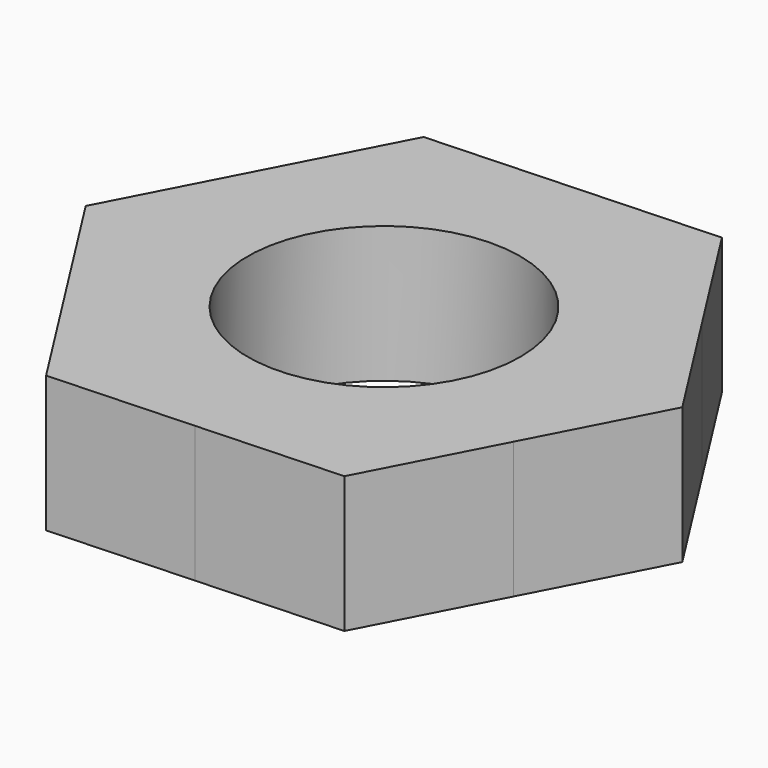
from build123d import *

# Parameters (mm, degrees)
F0_R     = 1.5
F1_DEPTH = 1.5


with BuildPart() as f1:
    # F0 (on Top) → F1 (new body)
    with BuildSketch(Plane.XY):
        with BuildLine():
            ThreePointArc((-0.1201086231, 2.7473758241), (1.2696708079, 2.4393515613), (2.3192429637, 1.4777050029))
            Line((2.3192429637, 1.4777050029), (1.4660895902, 2.8167205482))
            Line((1.4660895902, 2.8167205482), (-0.1201086231, 2.7473758241))
        make_face()
        with BuildLine():
            Line((1.706306755, -2.6780311034), (2.4393515428, -1.2696708434))
            ThreePointArc((2.4393515428, -1.2696708434), (1.477704987, -2.3192429738), (0.1201085757, -2.7473758261))
            Line((0.1201085757, -2.7473758261), (1.706306755, -2.6780311034))
        make_face()
        with BuildLine():
            ThreePointArc((-2.4393515589, 1.2696708124), (-1.4777050217, 2.3192429516), (-0.1201086231, 2.7473758241))
            Line((-0.1201086231, 2.7473758241), (-1.706306755, 2.6780311034))
            Line((-1.706306755, 2.6780311034), (-2.4393515589, 1.2696708124))
        make_face()
        with BuildLine():
            ThreePointArc((2.3192429637, 1.4777050029), (2.6401153526, 0.7696043951), (2.75, 0))
            ThreePointArc((2.75, 0), (2.671209159, -0.6535607307), (2.4393515428, -1.2696708434))
            Line((2.4393515428, -1.2696708434), (3.1723963452, 0.1386894448))
            Line((3.1723963452, 0.1386894448), (2.3192429637, 1.4777050029))
        make_face()
        with BuildLine():
            Line((-1.4660895902, -2.8167205482), (0.1201085757, -2.7473758261))
            ThreePointArc((0.1201085757, -2.7473758261), (-1.2696708891, -2.439351519), (-2.3192430366, -1.4777048885))
            Line((-2.3192430366, -1.4777048885), (-1.4660895902, -2.8167205482))
        make_face()
        with BuildLine():
            ThreePointArc((-2.3192430366, -1.4777048885), (-2.7473758282, -0.1201085279), (-2.4393515589, 1.2696708124))
            Line((-2.4393515589, 1.2696708124), (-3.1723963452, -0.1386894448))
            Line((-3.1723963452, -0.1386894448), (-2.3192430366, -1.4777048885))
        make_face()
        with BuildLine():
            ThreePointArc((2.4393515428, -1.2696708434), (2.671209159, -0.6535607307), (2.75, 0))
            ThreePointArc((2.75, 0), (2.6401153526, 0.7696043951), (2.3192429637, 1.4777050029))
            ThreePointArc((2.3192429637, 1.4777050029), (1.2696708079, 2.4393515613), (-0.1201086231, 2.7473758241))
            ThreePointArc((-0.1201086231, 2.7473758241), (-1.4777050217, 2.3192429516), (-2.4393515589, 1.2696708124))
            ThreePointArc((-2.4393515589, 1.2696708124), (-2.7473758282, -0.1201085279), (-2.3192430366, -1.4777048885))
            ThreePointArc((-2.3192430366, -1.4777048885), (-1.2696708891, -2.439351519), (0.1201085757, -2.7473758261))
            ThreePointArc((0.1201085757, -2.7473758261), (1.477704987, -2.3192429738), (2.4393515428, -1.2696708434))
        make_face()
        Circle(F0_R, mode=Mode.SUBTRACT)
    extrude(amount=F1_DEPTH)


solid = f1.part
